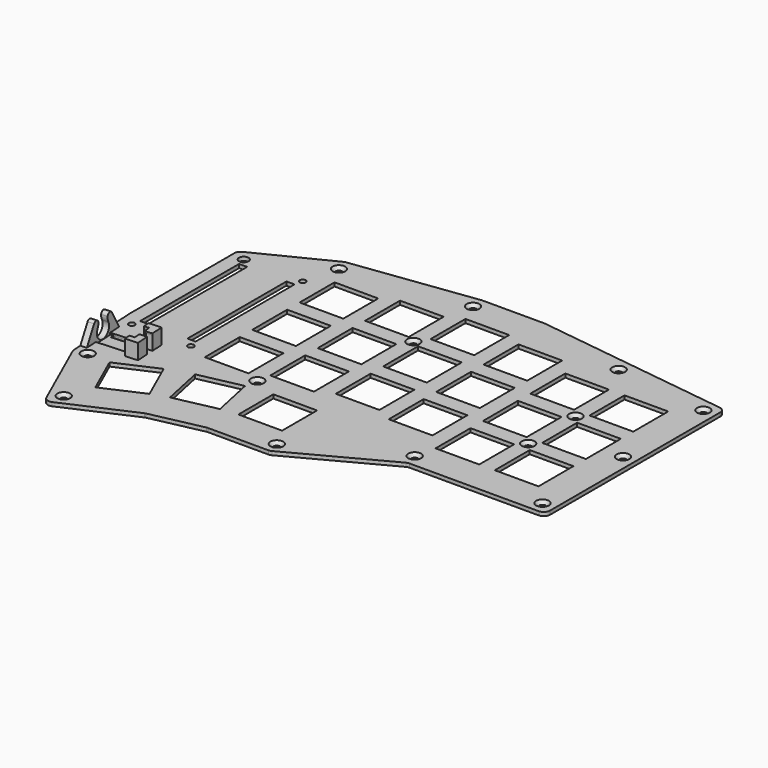
from build123d import *

# Parameters (mm, degrees)
SKETCH021_W     = 14.05
SKETCH021_H     = 14.05
PAD012_DEPTH    = 1.2
FILLET006_R     = 2
SKETCH022_R     = 1.05
SKETCH022_R_2   = 1.55
POCKET009_DEPTH = 1.2
CHAMFER003_SIZE = 1
SKETCH023_R     = 0.975
SKETCH023_W     = 2.6
SKETCH023_H     = 39.8
POCKET010_DEPTH = 5
POCKET011_DEPTH = 0.6
POCKET012_DEPTH = 5
PAD013_DEPTH    = 2
FILLET007_R     = 3
FILLET008_R     = 1
PAD014_DEPTH    = 4.45
PAD015_DEPTH    = 0.5


with BuildPart() as rightplate:
    # Sketch021 → Pad012 (new body)
    with BuildSketch(Plane.XY):
        Polygon((0, 72.168726), (0, 0), (44.103903, 0), (75.203903, -16.55), (95.409166, -16.55), (112.397959, -20.161079), (136.341223, -30.821308), (147.938038, -4.774436), (149.35, 19.79532), (149.35, 63.069272), (124.674612, 75.406966), (84.722693, 80.65), (64.627307, 80.65), align=None)
        Polygon((118.184417, -11.243696), (123.899067, 1.591618), (136.734381, -4.123032), (131.019731, -16.958346), align=None, mode=Mode.SUBTRACT)
        with Locations((17.525, 17.525)):
            Rectangle(SKETCH021_W, SKETCH021_H, mode=Mode.SUBTRACT)
        with Locations((36.575, 17.525)):
            Rectangle(SKETCH021_W, SKETCH021_H, mode=Mode.SUBTRACT)
        with Locations((55.625, 22.525)):
            Rectangle(SKETCH021_W, SKETCH021_H, mode=Mode.SUBTRACT)
        with Locations((74.675, 25.025)):
            Rectangle(SKETCH021_W, SKETCH021_H, mode=Mode.SUBTRACT)
        with Locations((93.725, 22.525)):
            Rectangle(SKETCH021_W, SKETCH021_H, mode=Mode.SUBTRACT)
        with Locations((112.775, 20.025)):
            Rectangle(SKETCH021_W, SKETCH021_H, mode=Mode.SUBTRACT)
        with Locations((17.525, 36.575)):
            Rectangle(SKETCH021_W, SKETCH021_H, mode=Mode.SUBTRACT)
        with Locations((36.575, 36.575)):
            Rectangle(SKETCH021_W, SKETCH021_H, mode=Mode.SUBTRACT)
        with Locations((55.625, 41.575)):
            Rectangle(SKETCH021_W, SKETCH021_H, mode=Mode.SUBTRACT)
        with Locations((74.675, 44.075)):
            Rectangle(SKETCH021_W, SKETCH021_H, mode=Mode.SUBTRACT)
        with Locations((93.725, 41.575)):
            Rectangle(SKETCH021_W, SKETCH021_H, mode=Mode.SUBTRACT)
        with Locations((112.775, 39.075)):
            Rectangle(SKETCH021_W, SKETCH021_H, mode=Mode.SUBTRACT)
        with Locations((17.525, 55.625)):
            Rectangle(SKETCH021_W, SKETCH021_H, mode=Mode.SUBTRACT)
        with Locations((36.575, 55.625)):
            Rectangle(SKETCH021_W, SKETCH021_H, mode=Mode.SUBTRACT)
        with Locations((55.625, 60.625)):
            Rectangle(SKETCH021_W, SKETCH021_H, mode=Mode.SUBTRACT)
        with Locations((74.675, 63.125)):
            Rectangle(SKETCH021_W, SKETCH021_H, mode=Mode.SUBTRACT)
        with Locations((93.725, 60.625)):
            Rectangle(SKETCH021_W, SKETCH021_H, mode=Mode.SUBTRACT)
        with Locations((112.775, 58.125)):
            Rectangle(SKETCH021_W, SKETCH021_H, mode=Mode.SUBTRACT)
        with Locations((86.725, 0.975)):
            Rectangle(SKETCH021_W, SKETCH021_H, mode=Mode.SUBTRACT)
        Polygon((99.215148, -6.62441), (102.136307, 7.118564), (115.879281, 4.197404), (112.958122, -9.545569), align=None, mode=Mode.SUBTRACT)
    extrude(amount=PAD012_DEPTH)

    # Fillet006
    fillet006_edges = [rightplate.edges().sort_by_distance(p)[0] for p in [
        (0, 0, 0.6),
        (44.103903, 0, 0.6),
        (75.203903, -16.55, 0.6),
        (95.409166, -16.55, 0.6),
        (112.397959, -20.161079, 0.6),
        (136.341223, -30.821308, 0.6),
        (147.938038, -4.774436, 0.6),
        (149.35, 63.069272, 0.6),
        (124.674612, 75.406966, 0.6),
        (84.722693, 80.65, 0.6),
        (64.627307, 80.65, 0.6),
        (0, 72.168726, 0.6),
    ]]
    fillet(fillet006_edges, radius=FILLET006_R)

    # Sketch022 (on Face5 of Fillet006) → Pocket009 (cut)
    with BuildSketch(Plane.XY.offset(1.2)):
        with Locations((4, 68.659363)):
            Circle(SKETCH022_R)
        with Locations((4, 4)):
            Circle(SKETCH022_R)
        with Locations((45.101951, 4)):
            Circle(SKETCH022_R)
        with Locations((76.201951, -12.55)):
            Circle(SKETCH022_R)
        with Locations((134.313988, -25.540179)):
            Circle(SKETCH022_R)
        with Locations((123.487306, 71.528483)):
            Circle(SKETCH022_R)
        with Locations((143.986562, -3.815223)):
            Circle(SKETCH022_R)
        with Locations((4, 36.329682)):
            Circle(SKETCH022_R)
        with Locations((34.444327, 72.654682)):
            Circle(SKETCH022_R)
        with Locations((27.05, 46.1)):
            Circle(SKETCH022_R)
        with Locations((27.05, 27.05)):
            Circle(SKETCH022_R)
        with Locations((145.35, 60.597136)):
            Circle(SKETCH022_R_2)
        with Locations((101.459216, 11.212173)):
            Circle(SKETCH022_R)
        with Locations((84.2, 52.35)):
            Circle(SKETCH022_R)
        with Locations((84.461347, 76.65)):
            Circle(SKETCH022_R)
    extrude(amount=-POCKET009_DEPTH, mode=Mode.SUBTRACT)

    # Chamfer003
    chamfer003_edges = [rightplate.edges().sort_by_distance(p)[0] for p in [
        (2.95, 68.659363, 1.2),
        (33.394327, 72.654682, 1.2),
        (83.411347, 76.65, 1.2),
        (122.437306, 71.528483, 1.2),
        (83.15, 52.35, 1.2),
        (26, 46.1, 1.2),
        (2.95, 36.329682, 1.2),
        (26, 27.05, 1.2),
        (2.95, 4, 1.2),
        (44.051951, 4, 1.2),
        (75.151951, -12.55, 1.2),
        (100.409216, 11.212173, 1.2),
        (142.936562, -3.815223, 1.2),
        (133.263988, -25.540179, 1.2),
    ]]
    chamfer(chamfer003_edges, length=CHAMFER003_SIZE)

    # Sketch023 (on Face1 of Chamfer003) → Pocket010 (cut)
    with BuildSketch(Plane.XY.offset(1.2)):
        with Locations((126.35, 60.597136)):
            Circle(SKETCH023_R)
        with Locations((145.35, 15.597136)):
            Circle(SKETCH023_R)
        with Locations((126.35, 15.597136)):
            Circle(SKETCH023_R)
        with Locations((128.23, 38.097136)):
            Rectangle(SKETCH023_W, SKETCH023_H)
        with Locations((143.47, 38.097136)):
            Rectangle(SKETCH023_W, SKETCH023_H)
    extrude(amount=-POCKET010_DEPTH, mode=Mode.SUBTRACT)

    # Sketch024 (on Face1 of Pocket010) → Pocket011 (cut)
    with BuildSketch(Plane.XY.offset(1.2)):
        Polygon((148.700849, 8.499357), (134.324569, 9.325525), (133.965989, 3.08582), (148.342269, 2.259651), align=None)
    extrude(amount=-POCKET011_DEPTH, mode=Mode.SUBTRACT)

    # Sketch025 (on Face141 of Pocket011) → Pocket012 (cut)
    with BuildSketch(Plane.XY.offset(0.6)):
        Polygon((134.324569, 9.325525), (145.705791, 8.671475), (145.648418, 7.673122), (134.267196, 8.327173), align=None)
        Polygon((133.965989, 3.08582), (135.663188, 2.988286), (135.760722, 4.685486), (134.063522, 4.78302), align=None)
    extrude(amount=-POCKET012_DEPTH, mode=Mode.SUBTRACT)

    # Sketch026 (on Face11 of Pocket012) → Pad013 (join)
    with BuildSketch(Plane(origin=(147.724551, -8.489359, 0), x_dir=(0.057373, 0.998353, 0), z_dir=(0.998353, -0.057373, 0))):
        with BuildLine():
            ThreePointArc((12.566745, 5.644967), (13.891745, 0.7), (15.216745, 5.644967))
            Line((16.778497, 8.35), (15.216745, 5.644967))
            Line((16.778497, 8.35), (20.906551, 1.2))
            Line((20.906551, 0), (20.906551, 1.2))
            Line((6.876939, 0), (20.906551, 0))
            Line((6.876939, 1.2), (6.876939, 0))
            Line((11.004994, 8.35), (6.876939, 1.2))
            Line((11.004994, 8.35), (12.566745, 5.644967))
        make_face()
    extrude(amount=-PAD013_DEPTH)

    # Fillet007
    fillet007_edges = [rightplate.edges().sort_by_distance(p)[0] for p in [
        (147.599225, 6.759694, 5.644967),
        (147.447187, 4.114059, 5.644967),
    ]]
    fillet(fillet007_edges, radius=FILLET007_R)

    # Fillet008
    fillet008_edges = [rightplate.edges().sort_by_distance(p)[0] for p in [
        (147.357585, 2.554881, 8.35),
        (147.688828, 8.318873, 8.35),
    ]]
    fillet(fillet008_edges, radius=FILLET008_R)

    # Sketch027 (on Face7 of Fillet008) → Pad014 (join)
    with BuildSketch(Plane.XY.offset(1.2)):
        Polygon((134.324569, 9.325525), (136.324569, 9.21059), (136.439504, 11.21059), (132.439504, 11.44046), (132.209634, 7.44046), (134.209634, 7.325525), align=None)
        Polygon((133.965989, 3.08582), (134.080924, 5.08582), (132.080924, 5.200755), (131.851054, 1.200755), (135.851054, 0.970885), (135.965989, 2.970885), align=None)
    extrude(amount=PAD014_DEPTH)

    # Sketch028 (on Face160 of Pad014) → Pad015 (join)
    with BuildSketch(Plane.XY.offset(5.65)):
        Polygon((132.080924, 5.200755), (131.851054, 1.200755), (135.851054, 0.970885), (135.965989, 2.970885), (134.362035, 3.06306), (134.47697, 5.06306), align=None)
        Polygon((132.209634, 7.44046), (134.605681, 7.302766), (134.720616, 9.302766), (136.324569, 9.21059), (136.439504, 11.21059), (132.439504, 11.44046), align=None)
    extrude(amount=PAD015_DEPTH)


with BuildPart() as rightplate_1:
    # Body005 placement: moved
    add(rightplate.part.moved(Location((0, 0, 3))))


with BuildPart() as part_mirroring:
    # Part__Mirroring: instance of RightPlate
    add(rightplate_1.part.mirror(Plane(origin=(0, 70.414045, 0), x_dir=(0, -1, 0), z_dir=(1, 0, 0))))


solid = part_mirroring.part
